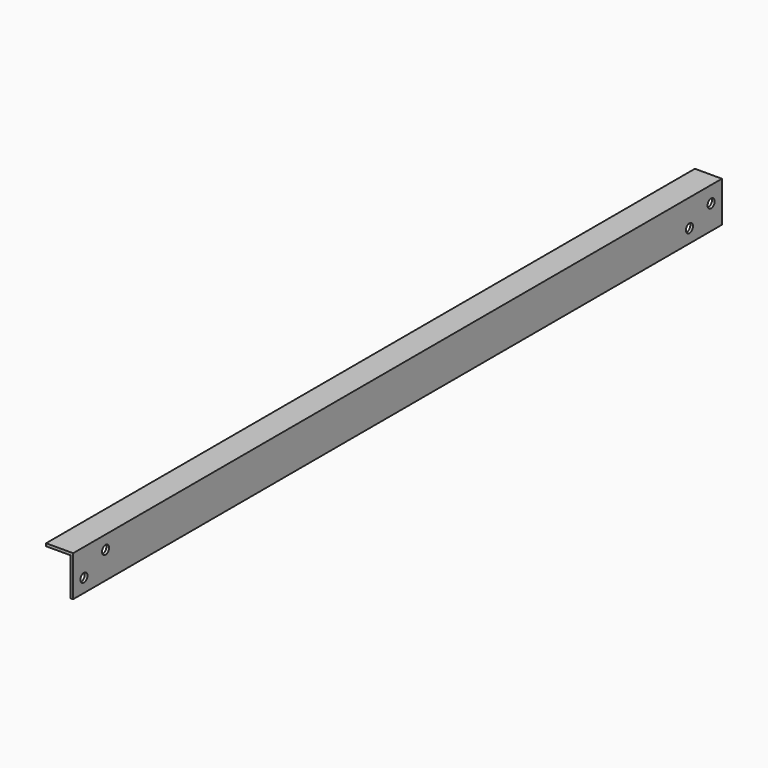
from build123d import *

# Parameters (mm, degrees)
PAD_DEPTH   = 600
SKETCH001_R = 3.25
HOLE_DEPTH  = 25


with BuildPart() as part:
    # Sketch → Pad (new body)
    with BuildSketch(Plane.XZ):
        Polygon((-20, 30), (0, 30), (0, 0), (-2, 0), (-2, 28), (-20, 28), align=None)
    extrude(amount=PAD_DEPTH)

    # Sketch001 (on Face4 of Pad) → Hole (cut)
    with BuildSketch(Plane(origin=(-2, 0, 0), x_dir=(0, 0, -1), z_dir=(-1, 0, 0))):
        with Locations((-18, 10)):
            Circle(SKETCH001_R)
        with Locations((-10, 30)):
            Circle(SKETCH001_R)
        with Locations((-10, 590)):
            Circle(SKETCH001_R)
        with Locations((-20, 570)):
            Circle(SKETCH001_R)
    extrude(amount=-HOLE_DEPTH, mode=Mode.SUBTRACT)


solid = part.part
